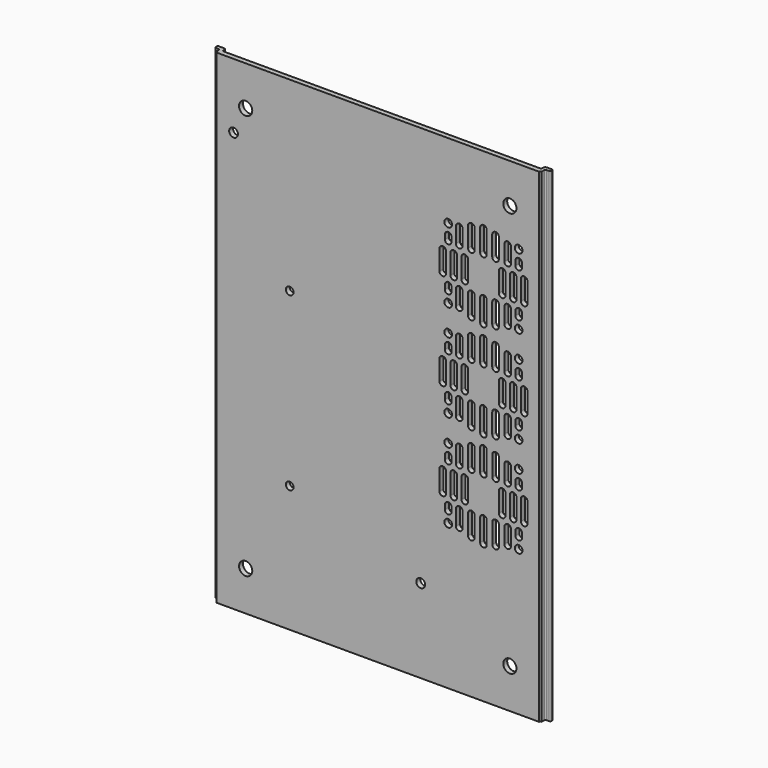
from build123d import *

# Parameters (mm, degrees)
PAD002_DEPTH    = 110
SKETCH005_R     = 2
SKETCH005_R_2   = 1.75
POCKET002_DEPTH = 2.251
SKETCH006_R     = 1.75
POCKET003_DEPTH = 5
SKETCH007_R     = 3
POCKET004_DEPTH = 5


with BuildPart() as part:
    # Sketch002 → Pad002 (new body, symmetric)
    with BuildSketch(Plane.XY):
        with BuildLine():
            Line((-72.340626, 3.292676), (-72.340626, 2.75))
            ThreePointArc((-72.340626, 2.75), (-72.194179, 2.396447), (-71.840626, 2.25))
            Line((-71.840626, 2.25), (71.960626, 2.25))
            ThreePointArc((71.960626, 2.25), (72.314179, 2.396447), (72.460626, 2.75))
            Line((72.460626, 2.75), (72.460626, 3.292676))
            ThreePointArc((73.460626, 4.292676), (72.753519, 3.999783), (72.460626, 3.292676))
            Line((73.460626, 4.292676), (75.76208, 4.292676))
            ThreePointArc((76.26208, 3.792676), (76.115633, 4.14623), (75.76208, 4.292676))
            Line((76.26208, 3.792676), (76.26208, 3.150519))
            ThreePointArc((75.76208, 2.650519), (76.115633, 2.796966), (76.26208, 3.150519))
            Line((75.76208, 2.650519), (74.460626, 2.650519))
            ThreePointArc((74.460626, 2.650519), (74.107073, 2.504072), (73.960626, 2.150519))
            Line((73.960626, 2.150519), (73.960626, 0.635))
            ThreePointArc((73.960626, 0.635), (73.511613, 0.449013), (73.325626, 0))
            Line((73.325626, 0), (-73.205626, 0))
            ThreePointArc((-73.205626, 0), (-73.391613, 0.449013), (-73.840626, 0.635))
            Line((-73.840626, 0.635), (-73.840626, 2.150519))
            ThreePointArc((-73.840626, 2.150519), (-73.987073, 2.504072), (-74.340626, 2.650519))
            Line((-74.340626, 2.650519), (-75.64208, 2.650519))
            ThreePointArc((-76.14208, 3.150519), (-75.995633, 2.796966), (-75.64208, 2.650519))
            Line((-76.14208, 3.150519), (-76.14208, 3.792676))
            ThreePointArc((-75.64208, 4.292676), (-75.995633, 4.14623), (-76.14208, 3.792676))
            Line((-75.64208, 4.292676), (-73.340626, 4.292676))
            ThreePointArc((-72.340626, 3.292676), (-72.633519, 3.999783), (-73.340626, 4.292676))
        make_face()
    extrude(amount=PAD002_DEPTH, both=True)

    # Sketch005 (on Face3 of Pad002) → Pocket002 (cut, through all)
    with BuildSketch(Plane(origin=(0, 2.25, 0), x_dir=(-1, 0, 0), z_dir=(0, 1, 0))):
        with Locations((-19.5, -72)):
            Circle(SKETCH005_R)
        with Locations((65.5, 80.5)):
            Circle(SKETCH005_R)
        with Locations((40, -52.5)):
            Circle(SKETCH005_R_2)
        with Locations((40, 25.5)):
            Circle(SKETCH005_R_2)
    extrude(amount=-POCKET002_DEPTH, mode=Mode.SUBTRACT)

    # Sketch006 (on Face7 of Pocket002) → Pocket003 (cut)
    with BuildSketch(Plane(origin=(0, 2.25, 0), x_dir=(-1, 0, 0), z_dir=(0, 1, 0))):
        with Locations((-64, 76)):
            Circle(SKETCH006_R)
        with Locations((-32, 76)):
            Circle(SKETCH006_R)
        with Locations((-32, 44)):
            Circle(SKETCH006_R)
        with Locations((-64, 44)):
            Circle(SKETCH006_R)
        with Locations((-64.00351, 32)):
            Circle(SKETCH006_R)
        with Locations((-32.00351, 32)):
            Circle(SKETCH006_R)
        with Locations((-32.00351, 0)):
            Circle(SKETCH006_R)
        with Locations((-64.00351, 0)):
            Circle(SKETCH006_R)
        with Locations((-64.00702, -12)):
            Circle(SKETCH006_R)
        with Locations((-32.00702, -12)):
            Circle(SKETCH006_R)
        with Locations((-32.00702, -44)):
            Circle(SKETCH006_R)
        with Locations((-64.00702, -44)):
            Circle(SKETCH006_R)
        with BuildLine():
            ThreePointArc((-65, 64.5), (-66.5, 66), (-68, 64.5))
            Line((-68, 64.5), (-68, 55.5))
            ThreePointArc((-68, 55.5), (-66.5, 54), (-65, 55.5))
            Line((-65, 64.5), (-65, 55.5))
        make_face()
        with BuildLine():
            ThreePointArc((-60, 64.5), (-61.5, 66), (-63, 64.5))
            Line((-63, 64.5), (-63, 55.5))
            ThreePointArc((-63, 55.5), (-61.5, 54), (-60, 55.5))
            Line((-60, 64.5), (-60, 55.5))
        make_face()
        with BuildLine():
            ThreePointArc((-55, 64.5), (-56.5, 66), (-58, 64.5))
            Line((-58, 64.5), (-58, 55.5))
            ThreePointArc((-58, 55.5), (-56.5, 54), (-55, 55.5))
            Line((-55, 64.5), (-55, 55.5))
        make_face()
        with BuildLine():
            ThreePointArc((-38, 64.5), (-39.5, 66), (-41, 64.5))
            Line((-41, 64.5), (-41, 55.5))
            ThreePointArc((-41, 55.5), (-39.5, 54), (-38, 55.5))
            Line((-38, 64.5), (-38, 55.5))
        make_face()
        with BuildLine():
            ThreePointArc((-33, 64.5), (-34.5, 66), (-36, 64.5))
            Line((-36, 64.5), (-36, 55.5))
            ThreePointArc((-36, 55.5), (-34.5, 54), (-33, 55.5))
            Line((-33, 64.5), (-33, 55.5))
        make_face()
        with BuildLine():
            ThreePointArc((-28, 64.5), (-29.5, 66), (-31, 64.5))
            Line((-31, 64.5), (-31, 55.5))
            ThreePointArc((-31, 55.5), (-29.5, 54), (-28, 55.5))
            Line((-28, 64.5), (-28, 55.5))
        make_face()
        with BuildLine():
            ThreePointArc((-62.5, 51), (-64, 52.5), (-65.5, 51))
            Line((-65.5, 51), (-65.5, 49))
            ThreePointArc((-65.5, 49), (-64, 47.5), (-62.5, 49))
            Line((-62.5, 51), (-62.5, 49))
        make_face()
        with BuildLine():
            ThreePointArc((-57.5, 51), (-59, 52.5), (-60.5, 51))
            Line((-60.5, 51), (-60.5, 44))
            ThreePointArc((-60.5, 44), (-59, 42.5), (-57.5, 44))
            Line((-57.5, 51), (-57.5, 44))
        make_face()
        with BuildLine():
            ThreePointArc((-52, 51), (-53.5, 52.5), (-55, 51))
            Line((-55, 51), (-55, 42))
            ThreePointArc((-55, 42), (-53.5, 40.5), (-52, 42))
            Line((-52, 51), (-52, 42))
        make_face()
        with BuildLine():
            ThreePointArc((-46.5, 51), (-48, 52.5), (-49.5, 51))
            Line((-49.5, 51), (-49.5, 41))
            ThreePointArc((-49.5, 41), (-48, 39.5), (-46.5, 41))
            Line((-46.5, 51), (-46.5, 41))
        make_face()
        with BuildLine():
            ThreePointArc((-41, 51), (-42.5, 52.5), (-44, 51))
            Line((-44, 51), (-44, 42))
            ThreePointArc((-44, 42), (-42.5, 40.5), (-41, 42))
            Line((-41, 51), (-41, 42))
        make_face()
        with BuildLine():
            ThreePointArc((-35.5, 51), (-37, 52.5), (-38.5, 51))
            Line((-38.5, 51), (-38.5, 44))
            ThreePointArc((-38.5, 44), (-37, 42.5), (-35.5, 44))
            Line((-35.5, 51), (-35.5, 44))
        make_face()
        with BuildLine():
            ThreePointArc((-30.5, 51), (-32, 52.5), (-33.5, 51))
            Line((-33.5, 51), (-33.5, 49))
            ThreePointArc((-33.5, 49), (-32, 47.5), (-30.5, 49))
            Line((-30.5, 51), (-30.5, 49))
        make_face()
        with BuildLine():
            ThreePointArc((-30.5, 71), (-32, 72.5), (-33.5, 71))
            Line((-33.5, 71), (-33.5, 69))
            ThreePointArc((-33.5, 69), (-32, 67.5), (-30.5, 69))
            Line((-30.5, 71), (-30.5, 69))
        make_face()
        with BuildLine():
            ThreePointArc((-35.5, 76), (-37, 77.5), (-38.5, 76))
            Line((-38.5, 76), (-38.5, 69))
            ThreePointArc((-38.5, 69), (-37, 67.5), (-35.5, 69))
            Line((-35.5, 76), (-35.5, 69))
        make_face()
        with BuildLine():
            ThreePointArc((-41, 78), (-42.5, 79.5), (-44, 78))
            Line((-44, 78), (-44, 69))
            ThreePointArc((-44, 69), (-42.5, 67.5), (-41, 69))
            Line((-41, 78), (-41, 69))
        make_face()
        with BuildLine():
            ThreePointArc((-46.5, 79), (-48, 80.5), (-49.5, 79))
            Line((-49.5, 79), (-49.5, 69))
            ThreePointArc((-49.5, 69), (-48, 67.5), (-46.5, 69))
            Line((-46.5, 79), (-46.5, 69))
        make_face()
        with BuildLine():
            ThreePointArc((-52, 78), (-53.5, 79.5), (-55, 78))
            Line((-55, 78), (-55, 69))
            ThreePointArc((-55, 69), (-53.5, 67.5), (-52, 69))
            Line((-52, 78), (-52, 69))
        make_face()
        with BuildLine():
            ThreePointArc((-57.5, 76), (-59, 77.5), (-60.5, 76))
            Line((-60.5, 76), (-60.5, 69))
            ThreePointArc((-60.5, 69), (-59, 67.5), (-57.5, 69))
            Line((-57.5, 76), (-57.5, 69))
        make_face()
        with BuildLine():
            ThreePointArc((-62.5, 71), (-64, 72.5), (-65.5, 71))
            Line((-65.5, 69), (-65.5, 71))
            ThreePointArc((-65.5, 69), (-64, 67.5), (-62.5, 69))
            Line((-62.5, 71), (-62.5, 69))
        make_face()
        with BuildLine():
            ThreePointArc((-65.00351, 20.5), (-66.50351, 22), (-68.00351, 20.5))
            Line((-68.00351, 20.5), (-68.00351, 11.5))
            ThreePointArc((-68.00351, 11.5), (-66.50351, 10), (-65.00351, 11.5))
            Line((-65.00351, 20.5), (-65.00351, 11.5))
        make_face()
        with BuildLine():
            ThreePointArc((-60.00351, 20.5), (-61.50351, 22), (-63.00351, 20.5))
            Line((-63.00351, 20.5), (-63.00351, 11.5))
            ThreePointArc((-63.00351, 11.5), (-61.50351, 10), (-60.00351, 11.5))
            Line((-60.00351, 20.5), (-60.00351, 11.5))
        make_face()
        with BuildLine():
            ThreePointArc((-55.00351, 20.5), (-56.50351, 22), (-58.00351, 20.5))
            Line((-58.00351, 20.5), (-58.00351, 11.5))
            ThreePointArc((-58.00351, 11.5), (-56.50351, 10), (-55.00351, 11.5))
            Line((-55.00351, 20.5), (-55.00351, 11.5))
        make_face()
        with BuildLine():
            ThreePointArc((-38.00351, 20.5), (-39.50351, 22), (-41.00351, 20.5))
            Line((-41.00351, 20.5), (-41.00351, 11.5))
            ThreePointArc((-41.00351, 11.5), (-39.50351, 10), (-38.00351, 11.5))
            Line((-38.00351, 20.5), (-38.00351, 11.5))
        make_face()
        with BuildLine():
            ThreePointArc((-33.00351, 20.5), (-34.50351, 22), (-36.00351, 20.5))
            Line((-36.00351, 20.5), (-36.00351, 11.5))
            ThreePointArc((-36.00351, 11.5), (-34.50351, 10), (-33.00351, 11.5))
            Line((-33.00351, 20.5), (-33.00351, 11.5))
        make_face()
        with BuildLine():
            ThreePointArc((-28.00351, 20.5), (-29.50351, 22), (-31.00351, 20.5))
            Line((-31.00351, 20.5), (-31.00351, 11.5))
            ThreePointArc((-31.00351, 11.5), (-29.50351, 10), (-28.00351, 11.5))
            Line((-28.00351, 20.5), (-28.00351, 11.5))
        make_face()
        with BuildLine():
            ThreePointArc((-62.50351, 7), (-64.00351, 8.5), (-65.50351, 7))
            Line((-65.50351, 7), (-65.50351, 5))
            ThreePointArc((-65.50351, 5), (-64.00351, 3.5), (-62.50351, 5))
            Line((-62.50351, 7), (-62.50351, 5))
        make_face()
        with BuildLine():
            ThreePointArc((-57.50351, 7), (-59.00351, 8.5), (-60.50351, 7))
            Line((-60.50351, 7), (-60.50351, 0))
            ThreePointArc((-60.50351, 0), (-59.00351, -1.5), (-57.50351, 0))
            Line((-57.50351, 7), (-57.50351, 0))
        make_face()
        with BuildLine():
            ThreePointArc((-52.00351, 7), (-53.50351, 8.5), (-55.00351, 7))
            Line((-55.00351, 7), (-55.00351, -2))
            ThreePointArc((-55.00351, -2), (-53.50351, -3.5), (-52.00351, -2))
            Line((-52.00351, 7), (-52.00351, -2))
        make_face()
        with BuildLine():
            ThreePointArc((-46.50351, 7), (-48.00351, 8.5), (-49.50351, 7))
            Line((-49.50351, 7), (-49.50351, -3))
            ThreePointArc((-49.50351, -3), (-48.00351, -4.5), (-46.50351, -3))
            Line((-46.50351, 7), (-46.50351, -3))
        make_face()
        with BuildLine():
            ThreePointArc((-41.00351, 7), (-42.50351, 8.5), (-44.00351, 7))
            Line((-44.00351, 7), (-44.00351, -2))
            ThreePointArc((-44.00351, -2), (-42.50351, -3.5), (-41.00351, -2))
            Line((-41.00351, 7), (-41.00351, -2))
        make_face()
        with BuildLine():
            ThreePointArc((-35.50351, 7), (-37.00351, 8.5), (-38.50351, 7))
            Line((-38.50351, 7), (-38.50351, 0))
            ThreePointArc((-38.50351, 0), (-37.00351, -1.5), (-35.50351, 0))
            Line((-35.50351, 7), (-35.50351, 0))
        make_face()
        with BuildLine():
            ThreePointArc((-30.50351, 7), (-32.00351, 8.5), (-33.50351, 7))
            Line((-33.50351, 7), (-33.50351, 5))
            ThreePointArc((-33.50351, 5), (-32.00351, 3.5), (-30.50351, 5))
            Line((-30.50351, 7), (-30.50351, 5))
        make_face()
        with BuildLine():
            ThreePointArc((-30.50351, 27), (-32.00351, 28.5), (-33.50351, 27))
            Line((-33.50351, 27), (-33.50351, 25))
            ThreePointArc((-33.50351, 25), (-32.00351, 23.5), (-30.50351, 25))
            Line((-30.50351, 27), (-30.50351, 25))
        make_face()
        with BuildLine():
            ThreePointArc((-35.50351, 32), (-37.00351, 33.5), (-38.50351, 32))
            Line((-38.50351, 32), (-38.50351, 25))
            ThreePointArc((-38.50351, 25), (-37.00351, 23.5), (-35.50351, 25))
            Line((-35.50351, 32), (-35.50351, 25))
        make_face()
        with BuildLine():
            ThreePointArc((-41.00351, 34), (-42.50351, 35.5), (-44.00351, 34))
            Line((-44.00351, 34), (-44.00351, 25))
            ThreePointArc((-44.00351, 25), (-42.50351, 23.5), (-41.00351, 25))
            Line((-41.00351, 34), (-41.00351, 25))
        make_face()
        with BuildLine():
            ThreePointArc((-46.50351, 35), (-48.00351, 36.5), (-49.50351, 35))
            Line((-49.50351, 35), (-49.50351, 25))
            ThreePointArc((-49.50351, 25), (-48.00351, 23.5), (-46.50351, 25))
            Line((-46.50351, 35), (-46.50351, 25))
        make_face()
        with BuildLine():
            ThreePointArc((-52.00351, 34), (-53.50351, 35.5), (-55.00351, 34))
            Line((-55.00351, 34), (-55.00351, 25))
            ThreePointArc((-55.00351, 25), (-53.50351, 23.5), (-52.00351, 25))
            Line((-52.00351, 34), (-52.00351, 25))
        make_face()
        with BuildLine():
            ThreePointArc((-57.50351, 32), (-59.00351, 33.5), (-60.50351, 32))
            Line((-60.50351, 32), (-60.50351, 25))
            ThreePointArc((-60.50351, 25), (-59.00351, 23.5), (-57.50351, 25))
            Line((-57.50351, 32), (-57.50351, 25))
        make_face()
        with BuildLine():
            ThreePointArc((-62.50351, 27), (-64.00351, 28.5), (-65.50351, 27))
            Line((-65.50351, 25), (-65.50351, 27))
            ThreePointArc((-65.50351, 25), (-64.00351, 23.5), (-62.50351, 25))
            Line((-62.50351, 27), (-62.50351, 25))
        make_face()
        with BuildLine():
            ThreePointArc((-65.00702, -23.5), (-66.50702, -22), (-68.00702, -23.5))
            Line((-68.00702, -23.5), (-68.00702, -32.5))
            ThreePointArc((-68.00702, -32.5), (-66.50702, -34), (-65.00702, -32.5))
            Line((-65.00702, -23.5), (-65.00702, -32.5))
        make_face()
        with BuildLine():
            ThreePointArc((-60.00702, -23.5), (-61.50702, -22), (-63.00702, -23.5))
            Line((-63.00702, -23.5), (-63.00702, -32.5))
            ThreePointArc((-63.00702, -32.5), (-61.50702, -34), (-60.00702, -32.5))
            Line((-60.00702, -23.5), (-60.00702, -32.5))
        make_face()
        with BuildLine():
            ThreePointArc((-55.00702, -23.5), (-56.50702, -22), (-58.00702, -23.5))
            Line((-58.00702, -23.5), (-58.00702, -32.5))
            ThreePointArc((-58.00702, -32.5), (-56.50702, -34), (-55.00702, -32.5))
            Line((-55.00702, -23.5), (-55.00702, -32.5))
        make_face()
        with BuildLine():
            ThreePointArc((-38.00702, -23.5), (-39.50702, -22), (-41.00702, -23.5))
            Line((-41.00702, -23.5), (-41.00702, -32.5))
            ThreePointArc((-41.00702, -32.5), (-39.50702, -34), (-38.00702, -32.5))
            Line((-38.00702, -23.5), (-38.00702, -32.5))
        make_face()
        with BuildLine():
            ThreePointArc((-33.00702, -23.5), (-34.50702, -22), (-36.00702, -23.5))
            Line((-36.00702, -23.5), (-36.00702, -32.5))
            ThreePointArc((-36.00702, -32.5), (-34.50702, -34), (-33.00702, -32.5))
            Line((-33.00702, -23.5), (-33.00702, -32.5))
        make_face()
        with BuildLine():
            ThreePointArc((-28.00702, -23.5), (-29.50702, -22), (-31.00702, -23.5))
            Line((-31.00702, -23.5), (-31.00702, -32.5))
            ThreePointArc((-31.00702, -32.5), (-29.50702, -34), (-28.00702, -32.5))
            Line((-28.00702, -23.5), (-28.00702, -32.5))
        make_face()
        with BuildLine():
            ThreePointArc((-62.50702, -37), (-64.00702, -35.5), (-65.50702, -37))
            Line((-65.50702, -37), (-65.50702, -39))
            ThreePointArc((-65.50702, -39), (-64.00702, -40.5), (-62.50702, -39))
            Line((-62.50702, -37), (-62.50702, -39))
        make_face()
        with BuildLine():
            ThreePointArc((-57.50702, -37), (-59.00702, -35.5), (-60.50702, -37))
            Line((-60.50702, -37), (-60.50702, -44))
            ThreePointArc((-60.50702, -44), (-59.00702, -45.5), (-57.50702, -44))
            Line((-57.50702, -37), (-57.50702, -44))
        make_face()
        with BuildLine():
            ThreePointArc((-52.00702, -37), (-53.50702, -35.5), (-55.00702, -37))
            Line((-55.00702, -37), (-55.00702, -46))
            ThreePointArc((-55.00702, -46), (-53.50702, -47.5), (-52.00702, -46))
            Line((-52.00702, -37), (-52.00702, -46))
        make_face()
        with BuildLine():
            ThreePointArc((-46.50702, -37), (-48.00702, -35.5), (-49.50702, -37))
            Line((-49.50702, -37), (-49.50702, -47))
            ThreePointArc((-49.50702, -47), (-48.00702, -48.5), (-46.50702, -47))
            Line((-46.50702, -37), (-46.50702, -47))
        make_face()
        with BuildLine():
            ThreePointArc((-41.00702, -37), (-42.50702, -35.5), (-44.00702, -37))
            Line((-44.00702, -37), (-44.00702, -46))
            ThreePointArc((-44.00702, -46), (-42.50702, -47.5), (-41.00702, -46))
            Line((-41.00702, -37), (-41.00702, -46))
        make_face()
        with BuildLine():
            ThreePointArc((-35.50702, -37), (-37.00702, -35.5), (-38.50702, -37))
            Line((-38.50702, -37), (-38.50702, -44))
            ThreePointArc((-38.50702, -44), (-37.00702, -45.5), (-35.50702, -44))
            Line((-35.50702, -37), (-35.50702, -44))
        make_face()
        with BuildLine():
            ThreePointArc((-30.50702, -37), (-32.00702, -35.5), (-33.50702, -37))
            Line((-33.50702, -37), (-33.50702, -39))
            ThreePointArc((-33.50702, -39), (-32.00702, -40.5), (-30.50702, -39))
            Line((-30.50702, -37), (-30.50702, -39))
        make_face()
        with BuildLine():
            ThreePointArc((-30.50702, -17), (-32.00702, -15.5), (-33.50702, -17))
            Line((-33.50702, -17), (-33.50702, -19))
            ThreePointArc((-33.50702, -19), (-32.00702, -20.5), (-30.50702, -19))
            Line((-30.50702, -17), (-30.50702, -19))
        make_face()
        with BuildLine():
            ThreePointArc((-35.50702, -12), (-37.00702, -10.5), (-38.50702, -12))
            Line((-38.50702, -12), (-38.50702, -19))
            ThreePointArc((-38.50702, -19), (-37.00702, -20.5), (-35.50702, -19))
            Line((-35.50702, -12), (-35.50702, -19))
        make_face()
        with BuildLine():
            ThreePointArc((-41.00702, -10), (-42.50702, -8.5), (-44.00702, -10))
            Line((-44.00702, -10), (-44.00702, -19))
            ThreePointArc((-44.00702, -19), (-42.50702, -20.5), (-41.00702, -19))
            Line((-41.00702, -10), (-41.00702, -19))
        make_face()
        with BuildLine():
            ThreePointArc((-46.50702, -9), (-48.00702, -7.5), (-49.50702, -9))
            Line((-49.50702, -9), (-49.50702, -19))
            ThreePointArc((-49.50702, -19), (-48.00702, -20.5), (-46.50702, -19))
            Line((-46.50702, -9), (-46.50702, -19))
        make_face()
        with BuildLine():
            ThreePointArc((-52.00702, -10), (-53.50702, -8.5), (-55.00702, -10))
            Line((-55.00702, -10), (-55.00702, -19))
            ThreePointArc((-55.00702, -19), (-53.50702, -20.5), (-52.00702, -19))
            Line((-52.00702, -10), (-52.00702, -19))
        make_face()
        with BuildLine():
            ThreePointArc((-57.50702, -12), (-59.00702, -10.5), (-60.50702, -12))
            Line((-60.50702, -12), (-60.50702, -19))
            ThreePointArc((-60.50702, -19), (-59.00702, -20.5), (-57.50702, -19))
            Line((-57.50702, -12), (-57.50702, -19))
        make_face()
        with BuildLine():
            ThreePointArc((-62.50702, -17), (-64.00702, -15.5), (-65.50702, -17))
            Line((-65.50702, -19), (-65.50702, -17))
            ThreePointArc((-65.50702, -19), (-64.00702, -20.5), (-62.50702, -19))
            Line((-62.50702, -17), (-62.50702, -19))
        make_face()
    extrude(amount=-POCKET003_DEPTH, mode=Mode.SUBTRACT)

    # Sketch007 (on Face7 of Pocket003) → Pocket004 (cut)
    with BuildSketch(Plane(origin=(0, 2.25, 0), x_dir=(-1, 0, 0), z_dir=(0, 1, 0))):
        with Locations((-60, 92)):
            Circle(SKETCH007_R)
        with Locations((60, 92)):
            Circle(SKETCH007_R)
        with Locations((-60, -92)):
            Circle(SKETCH007_R)
        with Locations((60, -92)):
            Circle(SKETCH007_R)
    extrude(amount=-POCKET004_DEPTH, mode=Mode.SUBTRACT)


solid = part.part
